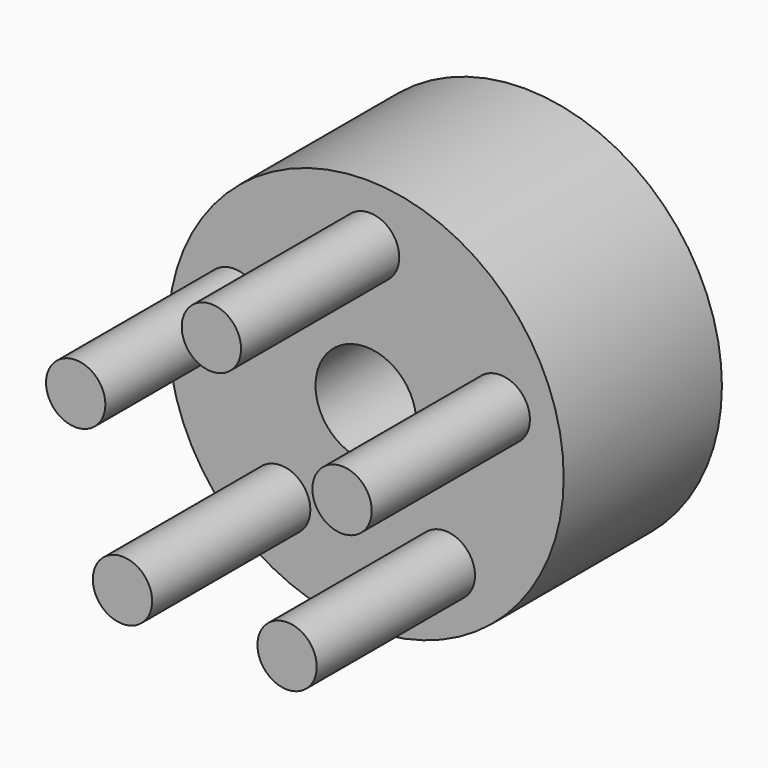
from build123d import *

# Parameters (mm, degrees)
F0_R     = 12.7
F1_DEPTH = 12.7
F2_R     = 3.2385
F3_DEPTH = 12.7
F4_R     = 1.905
F5_DEPTH = 12.7


with BuildPart() as f1:
    # F0 (on Front) → F1 (new body)
    with BuildSketch(Plane.XZ):
        Circle(F0_R)
    extrude(amount=F1_DEPTH)

    # F2 (on face) → F3 (cut)
    with BuildSketch(Plane.XZ.offset(12.7)):
        Circle(F2_R)
    extrude(amount=-F3_DEPTH, mode=Mode.SUBTRACT)

    # F4 (on face) → F5 (join)
    with BuildSketch(Plane.XZ.offset(12.7)):
        with Locations((-8.480146, 3.001869)):
            Circle(F4_R)
        with Locations((-5.475456, -7.13747)):
            Circle(F4_R)
        with Locations((5.096128, -7.413068)):
            Circle(F4_R)
        with Locations((8.625037, 2.555942)):
            Circle(F4_R)
        with Locations((0.234438, 8.992727)):
            Circle(F4_R)
    extrude(amount=F5_DEPTH)


solid = f1.part
